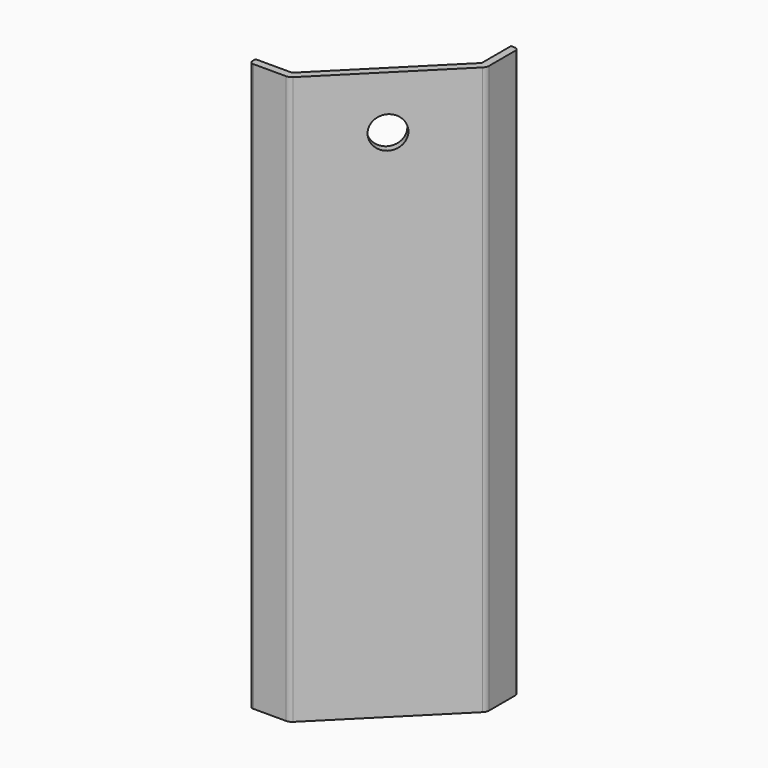
from build123d import *

# Parameters (mm, degrees)
F1_DEPTH = 28
F3_DEPTH = 94
F5_DEPTH = 28
F6_R     = 2
F7_R     = 1
F8_R     = 4.25
F9_DEPTH = 25


with BuildPart() as f1:
    # F0 (on Top) → F1 (new body)
    with BuildSketch(Plane.XY):
        Polygon((-19.75, -17.750001), (-19.75, -19.75), (-9.25, -19.75), (19.75, 9.25), (19.75, 19.75), (17.750001, 19.75), (17.750001, 10.078427), (-10.078427, -17.750001), align=None)
    extrude(amount=F1_DEPTH)

    # F2 (on face) → F3 (join)
    with BuildSketch(Plane.XY.offset(28)):
        Polygon((-19.75, -19.75), (-9.25, -19.75), (19.75, 9.25), (19.75, 19.75), (11.25, 19.75), (11.25, 24.25), (9.25, 26.25), (9.25, 23.421573), (9.25, 19.75), (9.25, 17.750001), (17.750001, 17.750001), (17.750001, 10.078427), (16.585787, 8.914213), (-8.914213, -16.585787), (-10.078427, -17.750001), (-17.750001, -17.750001), (-17.750001, -9.25), (-19.75, -9.25), (-23.421573, -9.25), (-26.25, -9.25), (-24.25, -11.25), (-19.75, -11.25), align=None)
    extrude(amount=F3_DEPTH)

    # F4 (on face) → F5 (join)
    with BuildSketch(Plane.XY.offset(122)):
        Polygon((19.75, 9.25), (19.75, 19.75), (17.750001, 19.75), (17.750001, 10.078427), (-10.078427, -17.750001), (-19.75, -17.750001), (-19.75, -19.75), (-9.25, -19.75), align=None)
    extrude(amount=F5_DEPTH)

    # F6
    f6_edges = [f1.edges().sort_by_distance(p)[0] for p in [
        (19.75, 9.25, 75),
        (-9.25, -19.75, 75),
    ]]
    fillet(f6_edges, radius=F6_R)

    # F7
    f7_edges = [f1.edges().sort_by_distance(p)[0] for p in [
        (-19.75, -19.75, 75),
        (19.75, 19.75, 75),
    ]]
    fillet(f7_edges, radius=F7_R)

    # F8 (on face) → F9 (cut)
    with BuildSketch(Plane(origin=(5.25, -5.25, 0), x_dir=(0.707107, 0.707107, 0), z_dir=(0.707107, -0.707107, 0))):
        with Locations((0, 136)):
            Circle(F8_R)
    extrude(amount=-F9_DEPTH, mode=Mode.SUBTRACT)


solid = f1.part
